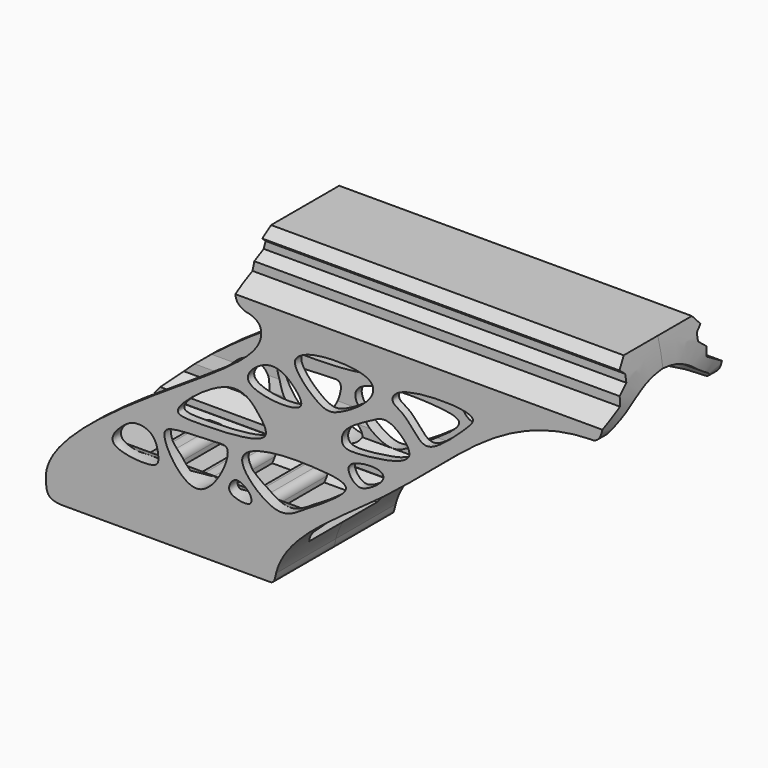
from build123d import *

# Parameters (mm, degrees)
F1_DEPTH      = 57
F1_DEPTH_BACK = 55
F3_W          = 4.8
F3_H          = 2.9
F4_DEPTH      = 14.1
F5_R          = 1.5
F6_DEPTH      = 25


with BuildPart() as f1:
    # F0 (on Right) → F1 (new body, two sides)
    with BuildSketch(Plane.YZ) as f1_sk:
        with BuildLine():
            Line((-9.0999994231, -29.9177410215), (-9.0999994231, -28.5315356788))
            Line((-9.0999994231, -28.5315356788), (-12.7816762374, -26.6857883692))
            Line((-12.7816762374, -26.6857883692), (-12.7816762374, -24.6855188161))
            Line((-12.7816762374, -24.6855188161), (-13.3200138807, -22.2743501149))
            Line((-13.3200138807, -22.2743501149), (-13.3200138807, 4.4772382826))
            add(Edge.make_bspline(
                [(-13.3200138807, 4.4772382826), (-13.41628097, 7.1915169246), (-8.9943991262, 8.6580508165), (-5.1910386248, 13.1273933724), (0, 13.4323835373)],
                knots=[0, 0, 0, 0, 0.4209981629, 1, 1, 1, 1], degree=3))
            Line((0, 13.4323835373), (0, 18.8590302169))
            Line((0, 18.8590302169), (-8.5, 18.8590302169))
            Line((-8.5, 18.8590302169), (-10.1048918441, 16.9855747372))
            Line((-10.1048918441, 16.9855747372), (-8.9382283122, 15.9861547844))
            Line((-8.9382283122, 15.9861547844), (-8.9382283122, 14.4861547844))
            Line((-8.9382283122, 14.4861547844), (-10.8195180073, 12.9576735198))
            Line((-10.8195180073, 12.9576735198), (-10.8195180073, 11.138622649))
            Line((-10.8195180073, 11.138622649), (-14.9123836309, 8.6699100211))
            Line((-14.9123836309, 8.6699100211), (-14.9123836309, -39.6648794413))
            Line((-14.9123836309, -39.6648794413), (0, -39.6648794413))
            Line((0, -39.6648794413), (0, -34.2531965652))
            Line((0, -34.2531965652), (-8.5, -34.2531965652))
            Line((-8.5, -34.2531965652), (-10.7341064415, -31.0616159344))
            Line((-10.7341064415, -31.0616159344), (-9.0999994231, -29.9177410215))
        make_face()
    extrude(amount=F1_DEPTH)
    extrude(f1_sk.sketch, amount=-F1_DEPTH_BACK)

    # F3 (on Front) → F4 (join)
    with BuildSketch(Plane.XZ):
        with Locations((-41.3580986828, -33.2982711077)):
            Rectangle(F3_W, F3_H)
        with Locations((-20.5580986828, -33.2982711077)):
            Rectangle(F3_W, F3_H)
        with Locations((-30.9580986828, -33.2982711077)):
            Rectangle(F3_W, F3_H)
    extrude(amount=F4_DEPTH)

    # F5
    f5_edges = [f1.edges().sort_by_distance(p)[0] for p in [
        (-18.158099, -5.091724, -31.848271),
        (-22.958099, -5.091724, -31.848271),
        (-28.558099, -5.091724, -31.848271),
        (-33.358099, -5.091724, -31.848271),
        (-38.958099, -5.091724, -31.848271),
        (-43.758099, -5.091724, -31.848271),
    ]]
    fillet(f5_edges, radius=F5_R)

    # F2 (on Front) → F6 (intersect)
    with BuildSketch(Plane.XZ):
        with BuildLine():
            add(Edge.make_bspline(
                [(53.6564029753, 6.2175109051), (46.5424430028, 6.0654303443), (32.6748657027, 1.2441078915), (13.3694143501, -18.3484951966), (-7.2761539109, -30.2300670775), (-9.0819569305, -37.7344340086)],
                knots=[0, 0, 0, 0, 0.2969462914, 0.6488908184, 1, 1, 1, 1], degree=3))
            add(Edge.make_bspline(
                [(54.9755698442, 19.6611728749), (56.1714426903, 15.1408395898), (56.7850463283, 9.9309728205), (55.3537350055, 6.0494541059), (53.6564029753, 6.2175109051)],
                knots=[0, 0, 0, 0, 0.6235198216, 1, 1, 1, 1], degree=3))
            Line((54.9755698442, 19.6611728749), (-15.0244301558, 19.6611728749))
            add(Edge.make_bspline(
                [(-15.0244301558, 19.6611728749), (-16.1630981333, 14.8398027399), (-18.5522948352, 7.7622477823), (-15.8873034629, 6.5665550121), (-15.2095397982, 6.2844072192)],
                knots=[0, 0, 0, 0, 0.6887530288, 1, 1, 1, 1], degree=3))
            add(Edge.make_bspline(
                [(-55.0244301558, -35.6495510787), (-55.0244301558, -26.8127139353), (-20.2444761985, -7.0805614093), (-10.8934278195, 1.8990579984), (-12.425330847, 5.8470559406), (-15.2095397982, 6.2844072192)],
                knots=[0, 0, 0, 0, 0.5373951016, 0.8272380647, 1, 1, 1, 1], degree=3))
            add(Edge.make_bspline(
                [(-55.0244301558, -35.6495510787), (-55.0579242408, -38.9855131507), (-53.1072760291, -40.7175205317), (-10.0934879089, -39.6631373815), (-9.4672814012, -39.6992601454), (-9.0819569305, -37.7344340086)],
                knots=[0, 0, 0, 0, 0.2223500525, 0.8356140221, 1, 1, 1, 1], degree=3))
        make_face()
        with BuildLine():
            add(Edge.make_bspline(
                [(-18.7521781772, -19.3962473422), (-18.8998008005, -18.4236919168), (-21.5642972747, -18.6918235244), (-29.1534988312, -18.7650759553), (-33.0362475474, -20.1576389891), (-24.3622143538, -33.8193618384), (-18.4541813465, -21.3594859584), (-18.7521781772, -19.3962473422)],
                knots=[0, 0, 0, 0, 0.1286656744, 0.3586210746, 0.4878067231, 0.7402704113, 1, 1, 1, 1], degree=3))
        make_face(mode=Mode.SUBTRACT)
        with BuildLine():
            add(Edge.make_bspline(
                [(-18.052155152, -26.6471765935), (-18.5728500071, -26.2075691174), (-18.4986864925, -25.0524806045), (-17.1630510087, -23.5753880633), (-15.3225742425, -24.4241227688), (-14.0338539578, -25.6404401483), (-13.7519729283, -27.9372655058), (-17.240240558, -27.3326523995), (-18.052155152, -26.6471765935)],
                knots=[0, 0, 0, 0, 0.1492091164, 0.3039173206, 0.4626279513, 0.6253871095, 0.7673396272, 1, 1, 1, 1], degree=3))
        make_face(mode=Mode.SUBTRACT)
        with BuildLine():
            add(Edge.make_bspline(
                [(-41.5022484958, -23.8669980317), (-41.1822032365, -23.2142989441), (-40.0372825154, -22.0892075552), (-37.6580037919, -20.0291369557), (-33.1739966278, -20.8819971562), (-32.4258953004, -25.0719858237), (-32.8607554727, -27.4613491865), (-42.1475111968, -26.5826875362), (-41.7908009469, -24.4554708057), (-41.5022484958, -23.8669980317)],
                knots=[0, 0, 0, 0, 0.1192043121, 0.2566329285, 0.4109302944, 0.5648497247, 0.6706832332, 0.8925255244, 1, 1, 1, 1], degree=3))
        make_face(mode=Mode.SUBTRACT)
        with BuildLine():
            add(Edge.make_bspline(
                [(-12.5037590042, -17.3769034445), (-9.0933401897, -16.440171253), (-0.9440803624, -16.4720267032), (8.0592661405, -17.7271330715), (-3.4893282185, -24.6185896952), (-8.8903941733, -28.5096603828), (-18.102480422, -20.1025679931), (-14.5338350866, -17.9344999513), (-12.5037590042, -17.3769034445)],
                knots=[0, 0, 0, 0, 0.2126061691, 0.3482149156, 0.5361014134, 0.6939088076, 0.873444664, 1, 1, 1, 1], degree=3))
        make_face(mode=Mode.SUBTRACT)
        with BuildLine():
            add(Edge.make_bspline(
                [(-18.7521781772, -8.1660216674), (-17.2189915146, -7.7843308008), (-14.7757419013, -8.2355810184), (-12.4509921647, -10.9624573298), (-8.9648656224, -16.0511575816), (-24.3205814743, -16.5302089006), (-29.9455354089, -16.3171012813), (-26.1376811195, -12.0532187059), (-21.0804979755, -8.745663027), (-18.7521781772, -8.1660216674)],
                knots=[0, 0, 0, 0, 0.119217227, 0.2371796387, 0.349299564, 0.5727271799, 0.6980219969, 0.818954967, 1, 1, 1, 1], degree=3))
        make_face(mode=Mode.SUBTRACT)
        with BuildLine():
            add(Edge.make_bspline(
                [(5.7476554066, -15.8306080848), (5.3644725378, -15.1999194229), (4.7916110346, -13.0504213065), (11.965866272, -12.285267916), (12.7714116936, -14.6382169449), (9.1057114338, -17.1217552158), (7.2102981817, -17.3797457407), (6.1273045674, -16.4554805431), (5.7476554066, -15.8306080848)],
                knots=[0, 0, 0, 0, 0.1437640387, 0.3912649362, 0.514599596, 0.7191053075, 0.8575617516, 1, 1, 1, 1], degree=3))
        make_face(mode=Mode.SUBTRACT)
        with BuildLine():
            add(Edge.make_bspline(
                [(-10.3834485635, -1.6260194825), (-12.4510222229, -1.9296014049), (-17.2492643844, -5.9037991537), (-9.3909520021, -8.0951296931), (-2.9313112311, -7.403082789), (-5.326674655, -3.6441397806), (-8.3273094085, -1.3241164889), (-10.3834485635, -1.6260194825)],
                knots=[0, 0, 0, 0, 0.2130588396, 0.4291446955, 0.6356551657, 0.7881194605, 1, 1, 1, 1], degree=3))
        make_face(mode=Mode.SUBTRACT)
        with BuildLine():
            add(Edge.make_bspline(
                [(4.5432560146, -8.4068672732), (5.4524698899, -7.0730886163), (9.248957592, -5.1374898985), (12.3830799504, -3.1977532839), (15.6067128059, -4.7939376875), (19.8314062151, -9.9014924736), (8.0540721974, -11.5676825448), (3.7804742736, -11.4616621893), (3.9552774038, -9.2694072574), (4.5432560146, -8.4068672732)],
                knots=[0, 0, 0, 0, 0.1624722224, 0.2894539263, 0.4151282823, 0.5504734903, 0.7615471751, 0.8949310011, 1, 1, 1, 1], degree=3))
        make_face(mode=Mode.SUBTRACT)
        with BuildLine():
            add(Edge.make_bspline(
                [(3.6669946276, -5.2450010553), (5.6364040835, -4.3551307897), (10.2973417113, -1.4529847802), (10.7171691959, 3.205798878), (0.7585571442, 3.8444787111), (-4.5458021771, 2.3653309436), (-6.1822655407, -0.2251001314), (0.0183334321, -6.309120676), (2.2886207464, -5.8678141163), (3.6669946276, -5.2450010553)],
                knots=[0, 0, 0, 0, 0.1724204731, 0.2794720799, 0.4672944198, 0.617055102, 0.7068265772, 0.8793242939, 1, 1, 1, 1], degree=3))
        make_face(mode=Mode.SUBTRACT)
        with BuildLine():
            add(Edge.make_bspline(
                [(16.3728632033, -1.6260194825), (15.4758155944, -0.8998279295), (13.59885713, -0.3100112715), (15.193854141, 3.6138564638), (32.3971760065, 3.7382592804), (28.5158519815, -0.399301561), (22.6542584351, -5.7933840438), (19.5459474527, -5.667593075), (17.5909437544, -2.6120984802), (16.3728632033, -1.6260194825)],
                knots=[0, 0, 0, 0, 0.1064120006, 0.2125227598, 0.4574341556, 0.5639383394, 0.7520378298, 0.855505564, 1, 1, 1, 1], degree=3))
        make_face(mode=Mode.SUBTRACT)
    extrude(amount=F6_DEPTH, mode=Mode.INTERSECT)

    # F7: F1 across plane


with BuildPart() as f1_1:
    add(f1.part)
    add(f1.part.mirror(Plane.XZ))


solid = f1_1.part
